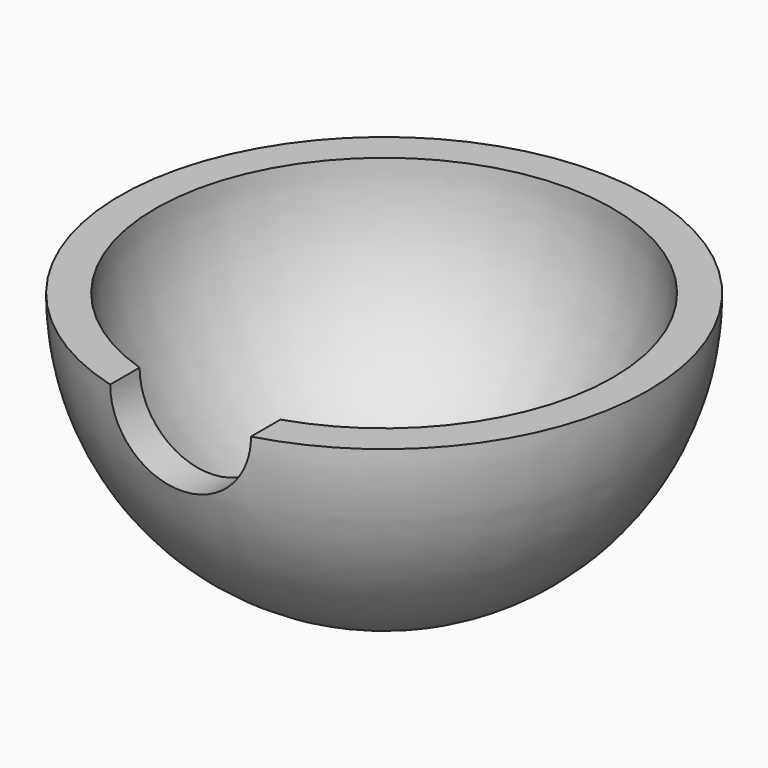
from build123d import *

# Parameters (mm, degrees)
F5_DEPTH = 38.1


with BuildPart() as f1:
    # F0 (on Front) → F1 (revolve)
    with BuildSketch(Plane.XZ):
        with BuildLine():
            Line((38.1, 0), (0, 0))
            Line((0, 0), (0, -38.1))
            ThreePointArc((0, -38.1), (26.940768, -26.940768), (38.1, 0))
        make_face()
    revolve(axis=Axis((0, 0, -19.05), (0, 0, -1)))

    # F2 (on Front) → F3 (revolve, cut)
    with BuildSketch(Plane.XZ):
        with BuildLine():
            Line((33.02, 0), (0, 0))
            Line((0, 0), (0, -33.02))
            ThreePointArc((0, -33.02), (23.348666, -23.348666), (33.02, 0))
        make_face()
    revolve(axis=Axis((0, 0, -16.51), (0, 0, -1)), mode=Mode.SUBTRACT)

    # F4 (on Front) → F5 (cut)
    with BuildSketch(Plane.XZ):
        with BuildLine():
            Line((10.16, 0), (0, 0))
            Line((0, 0), (-10.16, 0))
            ThreePointArc((-10.16, 0), (0, -10.16), (10.16, 0))
        make_face()
    extrude(amount=F5_DEPTH, mode=Mode.SUBTRACT)


solid = f1.part
